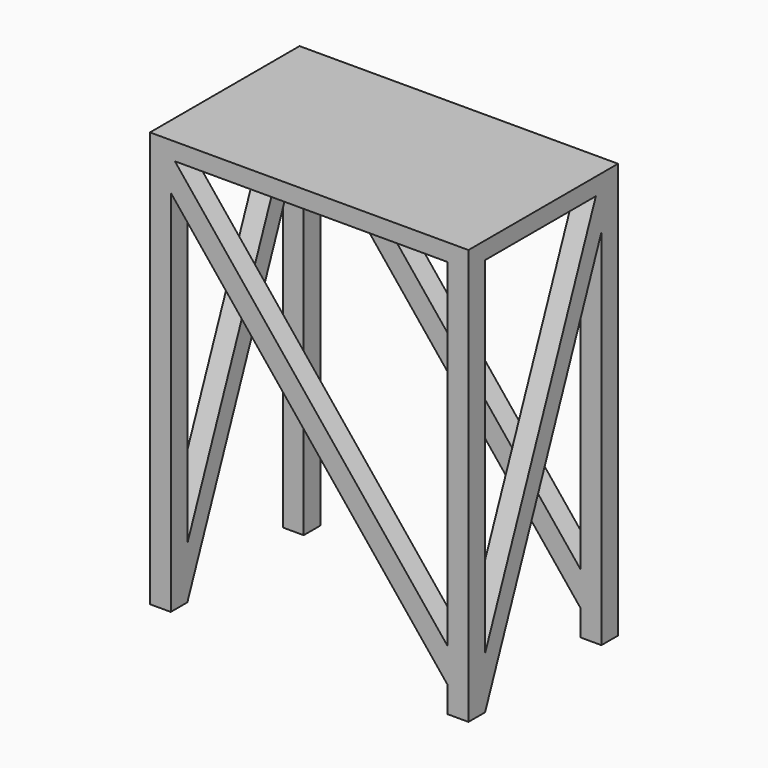
from build123d import *

# Parameters (mm, degrees)
F0_W      = 30
F0_H      = 30
F1_DEPTH  = 600
F2_W      = 460
F2_H      = 270
F3_DEPTH  = 25
F5_DEPTH  = 30
F7_DEPTH  = 30
F9_DEPTH  = 30
F11_DEPTH = 30


with BuildPart() as f1:
    # F0 (on Top) → F1 (new body)
    with BuildSketch(Plane.XY):
        with Locations((-215, 120)):
            Rectangle(F0_W, F0_H)
    extrude(amount=-F1_DEPTH)



with BuildPart() as f1b:
    # F0 (on Top) → F1, piece 2 (new body)
    with BuildSketch(Plane.XY):
        with Locations((-215, -120)):
            Rectangle(F0_W, F0_H)
    extrude(amount=-F1_DEPTH)


with BuildPart() as f1c:
    # F0 (on Top) → F1, piece 3 (new body)
    with BuildSketch(Plane.XY):
        with Locations((215, 120)):
            Rectangle(F0_W, F0_H)
    extrude(amount=-F1_DEPTH)


with BuildPart() as f1d:
    # F0 (on Top) → F1, piece 4 (new body)
    with BuildSketch(Plane.XY):
        with Locations((215, -120)):
            Rectangle(F0_W, F0_H)
    extrude(amount=-F1_DEPTH)


with BuildPart() as f1_1:
    add(f1.part)

    add(f1b.part)  # F3 merges F1b

    add(f1c.part)  # F3 merges F1c

    add(f1d.part)  # F3 merges F1d
    # F2 (on face) → F3 (join)
    with BuildSketch(Plane.XY):
        Rectangle(F2_W, F2_H)
    extrude(amount=-F3_DEPTH)

    # F4 (on face) → F5 (join)
    with BuildSketch(Plane.XZ.offset(135)):
        Polygon((-200, -25), (-200, -66.8888936143), (200, -562.8062018801), (200, -513.5346421648), (-194.0452442551, -25), align=None)
    extrude(amount=-F5_DEPTH)

    # F6 (on face) → F7 (join)
    with BuildSketch(Plane.XZ.offset(-105)):
        Polygon((-214.2098963722, 0), (-230, -29.6950954944), (230, -600), (230, -550.7284402847), align=None)
    extrude(amount=-F7_DEPTH)

    # F8 (on face) → F9 (join)
    with BuildSketch(Plane(origin=(-230, 0, 0), x_dir=(0, -1, 0), z_dir=(-1, 0, 0))):
        Polygon((-105, -25), (-105, -75), (105, -600), (105, -525), (-95, -25), align=None)
    extrude(amount=-F9_DEPTH)

    # F10 (on face) → F11 (join)
    with BuildSketch(Plane.YZ.offset(230)):
        Polygon((95, -25), (-105, -525), (-105, -600), (105, -75), (105, -25), align=None)
    extrude(amount=-F11_DEPTH)


solid = f1_1.part
